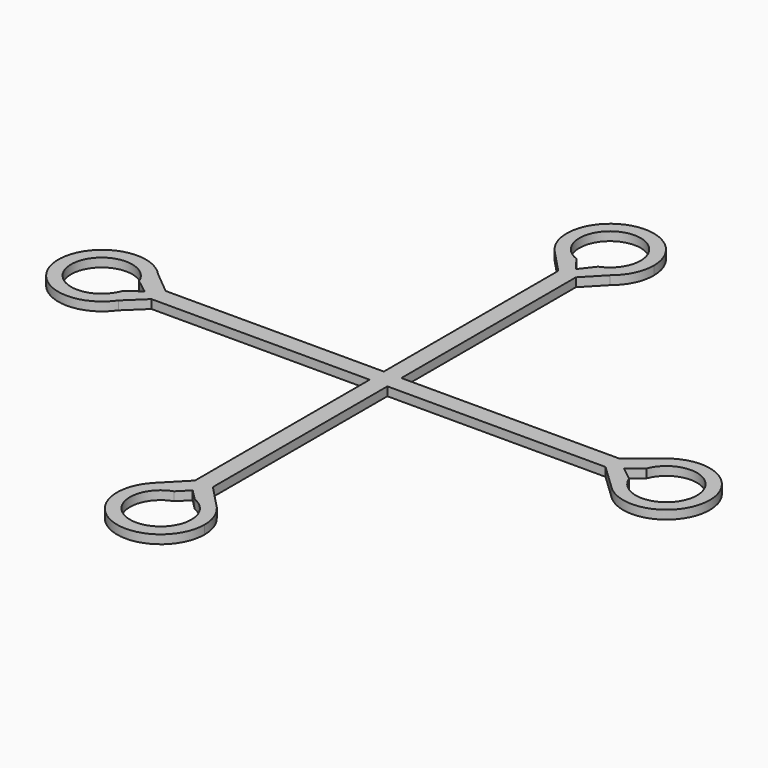
from build123d import *

# Parameters (mm, degrees)
F1_DEPTH = 1


with BuildPart() as f1:
    # F0 (on Top) → F1 (new body)
    with BuildSketch(Plane.XY):
        with BuildLine():
            ThreePointArc((-27.3388900485, -0.9977917653), (-27.2922865727, -0.6055926478), (-27.2767198383, -0.2109412719))
            ThreePointArc((-27.2767198383, -0.2109412719), (-27.3156011331, 0.4120452206), (-27.4316415742, 1.0253628716))
            ThreePointArc((-27.4316415742, 1.0253628716), (-27.8797003635, 2.1720812966), (-28.5938661896, 3.1749207641))
            ThreePointArc((-28.5938661896, 3.1749207641), (-37.2855795833, -0.5574762051), (-28.1619703008, -3.0547592313))
            ThreePointArc((-28.1619703008, -3.0547592313), (-27.6353110241, -2.0723395713), (-27.3388900485, -0.9977917653))
        make_face()
        with BuildLine():
            ThreePointArc((-29.0279696038, -1.4164111001), (-35.823533245, -0.271588351), (-29.0587042579, 1.0427149257))
            Line((-29.0587042579, 1.0427149257), (-27.4248942733, -0.2084955195))
            Line((-27.4248942733, -0.2084955195), (-29.0279696038, -1.4164111001))
        make_face(mode=Mode.SUBTRACT)
        with BuildLine():
            ThreePointArc((-27.4316415742, 1.0253628716), (-27.3156011331, 0.4120452206), (-27.2767198383, -0.2109412719))
            ThreePointArc((-27.2767198383, -0.2109412719), (-27.2922865727, -0.6055926478), (-27.3388900485, -0.9977917653))
            Line((-27.3388900485, -0.9977917653), (-26.0078907013, -0.9977917653))
            Line((-26.0078907013, -0.9977917653), (-1.021916396, -0.9977917653))
            Line((-1.021916396, -0.9977917653), (-1.021916396, 1.0253628716))
            Line((-1.021916396, 1.0253628716), (-26.0030180216, 1.0253628716))
            Line((-26.0030180216, 1.0253628716), (-27.4316415742, 1.0253628716))
        make_face()
        with BuildLine():
            ThreePointArc((-28.5938661896, 3.1749207641), (-27.8797003635, 2.1720812966), (-27.4316415742, 1.0253628716))
            Line((-27.4316415742, 1.0253628716), (-26.0030180216, 1.0253628716))
            Line((-26.0030180216, 1.0253628716), (-28.5938661896, 3.1749207641))
        make_face()
        with BuildLine():
            Line((-26.0078907013, -0.9977917653), (-27.3388900485, -0.9977917653))
            ThreePointArc((-27.3388900485, -0.9977917653), (-27.6353110241, -2.0723395713), (-28.1619703008, -3.0547592313))
            Line((-28.1619703008, -3.0547592313), (-26.0078907013, -0.9977917653))
        make_face()
        Polygon((0.9874751559, 1.0253628716), (-1.021916396, 1.0253628716), (-1.021916396, -0.9977917653), (1.015001093, -1.0115547339), align=None)
        with BuildLine():
            Line((-1.021916396, 25.9902365506), (-1.021916396, 1.0253628716))
            Line((-1.021916396, 1.0253628716), (0.9874751559, 1.0253628716))
            Line((0.9874751559, 1.0253628716), (0.9874751559, 25.9992666543))
            Line((0.9874751559, 25.9992666543), (3.1274161369, 28.2286134091))
            ThreePointArc((3.1274161369, 28.2286134091), (-0.2110990703, 27.1480978017), (-3.4350626667, 28.5334701326))
            Line((-3.4350626667, 28.5334701326), (-1.021916396, 25.9902365506))
        make_face()
        with BuildLine():
            Line((1.015001093, -1.0115547339), (-1.021916396, -0.9977917653))
            Line((-1.021916396, -0.9977917653), (-1.021916396, -25.9947646409))
            Line((-1.021916396, -25.9947646409), (-3.6052718224, -28.6383550821))
            ThreePointArc((-3.6052718224, -28.6383550821), (-0.1318413861, -27.131580678), (3.4036372353, -28.4863791938))
            Line((3.4036372353, -28.4863791938), (1.015001093, -25.9817112237))
            Line((1.015001093, -25.9817112237), (1.015001093, -1.0115547339))
        make_face()
        with BuildLine():
            Line((25.9883347899, 1.0253628716), (0.9874751559, 1.0253628716))
            Line((0.9874751559, 1.0253628716), (1.015001093, -1.0115547339))
            Line((1.015001093, -1.0115547339), (25.9923934937, -1.0115547339))
            Line((25.9923934937, -1.0115547339), (28.6975805016, -3.5872808494))
            ThreePointArc((28.6975805016, -3.5872808494), (27.369536281, -0.1344353197), (28.8009183125, 3.2768678307))
            Line((28.8009183125, 3.2768678307), (25.9883347899, 1.0253628716))
        make_face()
        with BuildLine():
            ThreePointArc((5.0084020941, 32.1307584701), (-1.9347123757, 36.7196739343), (-3.4350626667, 28.5334701326))
            ThreePointArc((-3.4350626667, 28.5334701326), (-0.2110990703, 27.1480978017), (3.1274161369, 28.2286134091))
            ThreePointArc((3.1274161369, 28.2286134091), (4.5136154985, 29.9648380971), (5.0084020941, 32.1307584701))
        make_face()
        with BuildLine():
            ThreePointArc((-1.2298567505, 28.8454476519), (-2.0094686913, 35.0154222768), (3.5018862947, 32.1342163019))
            ThreePointArc((3.5018862947, 32.1342163019), (2.8835722571, 30.1450564857), (1.2465469638, 28.8569504291))
            Line((1.2465469638, 28.8569504291), (0, 27.2457357496))
            Line((0, 27.2457357496), (-1.2298567505, 28.8454476519))
        make_face(mode=Mode.SUBTRACT)
        with BuildLine():
            ThreePointArc((3.4036372353, -28.4863791938), (-0.1318413861, -27.131580678), (-3.6052718224, -28.6383550821))
            ThreePointArc((-3.6052718224, -28.6383550821), (-1.9131855373, -36.7768054017), (4.9850663184, -32.1387399713))
            ThreePointArc((4.9850663184, -32.1387399713), (4.6761248214, -30.4069429432), (3.7874147234, -28.8887992883))
            Line((3.7874147234, -28.8887992883), (3.4036372353, -28.4863791938))
        make_face()
        with BuildLine():
            ThreePointArc((1.2534396715, -28.8638722912), (2.8530229788, -30.1549993601), (3.4550732676, -32.1205047187))
            ThreePointArc((3.4550732676, -32.1205047187), (-2.102698937, -34.9700851409), (-1.1725544757, -28.7940207192))
            Line((-1.1725544757, -28.7940207192), (0, -27.6099070907))
            Line((0, -27.6099070907), (1.2534396715, -28.8638722912))
        make_face(mode=Mode.SUBTRACT)
        with BuildLine():
            ThreePointArc((37.2871905838, -0.209084826), (34.2123813861, 4.378089767), (28.8009183125, 3.2768678307))
            ThreePointArc((28.8009183125, 3.2768678307), (27.369536281, -0.1344353197), (28.6975805016, -3.5872808494))
            ThreePointArc((28.6975805016, -3.5872808494), (34.1431171019, -4.8241040496), (37.2871905838, -0.209084826))
        make_face()
        with BuildLine():
            ThreePointArc((29.0519181081, 1.062034124), (32.9656955311, 3.2370827906), (35.8250662459, -0.2085651216))
            ThreePointArc((35.8250662459, -0.2085651216), (32.947537117, -3.6575699539), (29.0387142098, -1.4446732776))
            Line((29.0387142098, -1.4446732776), (27.4487081915, -0.1906345278))
            Line((27.4487081915, -0.1906345278), (29.0519181081, 1.062034124))
        make_face(mode=Mode.SUBTRACT)
        with BuildLine():
            ThreePointArc((3.7874147234, -28.8887992883), (3.6011154409, -28.6822587182), (3.4036372353, -28.4863791938))
            Line((3.4036372353, -28.4863791938), (3.7874147234, -28.8887992883))
        make_face()
    extrude(amount=F1_DEPTH)


solid = f1.part
